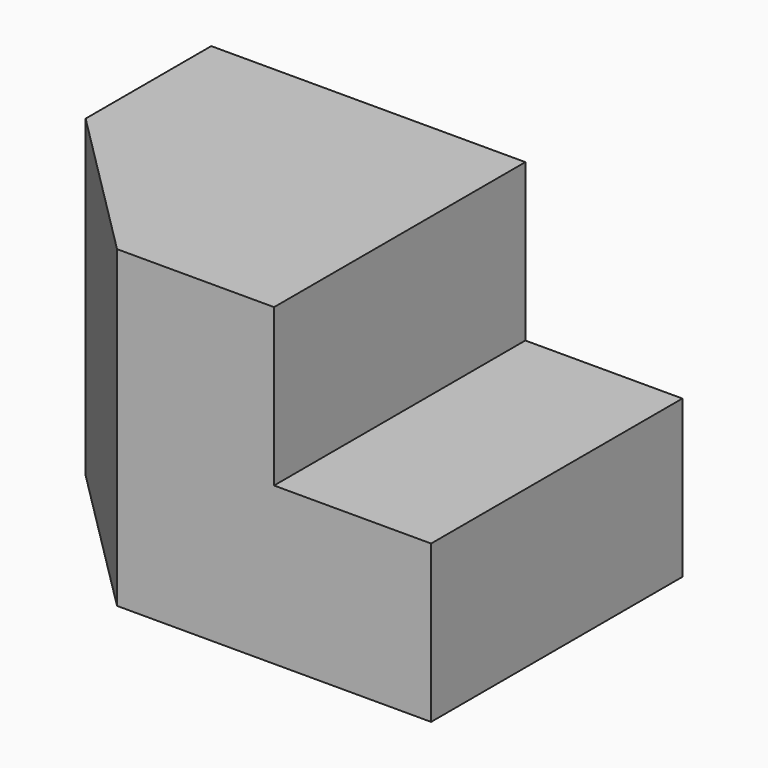
from build123d import *

# Parameters (mm, degrees)
F0_W     = 60
F0_H     = 40
F1_DEPTH = 40
F2_W     = 20
F2_H     = 20
F3_DEPTH = 40.001
F5_DEPTH = 40.001


with BuildPart() as f1:
    # F0 (on Front) → F1 (new body)
    with BuildSketch(Plane.XZ):
        with Locations((30, 20)):
            Rectangle(F0_W, F0_H)
    extrude(amount=-F1_DEPTH)

    # F2 (on face) → F3 (cut, through all)
    with BuildSketch(Plane.XZ):
        with Locations((50, 30)):
            Rectangle(F2_W, F2_H)
    extrude(amount=-F3_DEPTH, mode=Mode.SUBTRACT)

    # F4 (on face) → F5 (cut, through all)
    with BuildSketch(Plane.XY.offset(40)):
        Polygon((20, 0), (0, 20), (0, 0), align=None)
    extrude(amount=-F5_DEPTH, mode=Mode.SUBTRACT)


solid = f1.part
